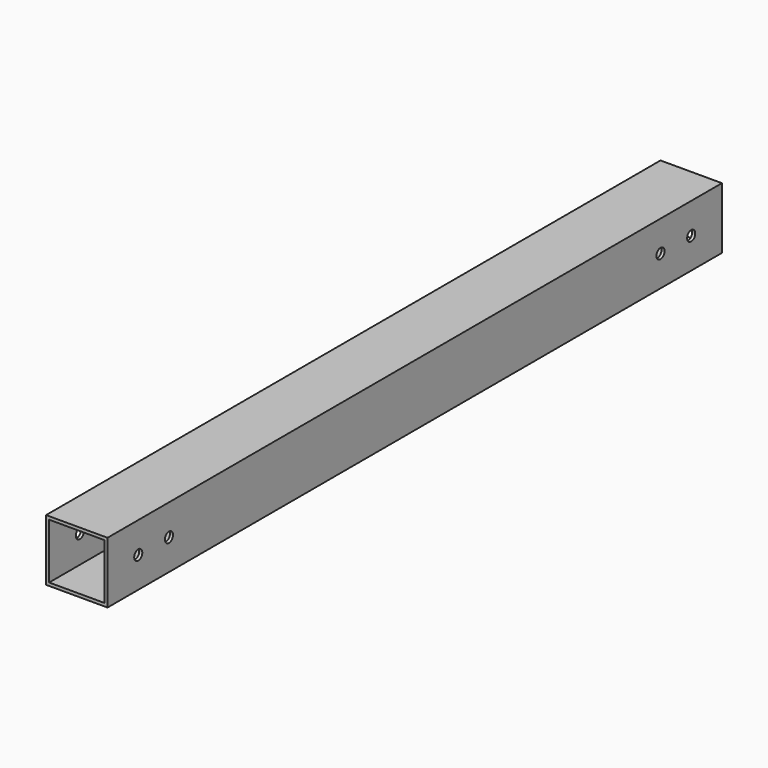
from build123d import *

# Parameters (mm, degrees)
SKETCH_W    = 40
SKETCH_H    = 40
SKETCH_W_2  = 36
SKETCH_H_2  = 36
PAD_DEPTH   = 500
SKETCH001_R = 3.3
HOLE_DEPTH  = 40.001


with BuildPart() as part:
    # Sketch → Pad (new body)
    with BuildSketch(Plane.XZ):
        Rectangle(SKETCH_W, SKETCH_H)
        Rectangle(SKETCH_W_2, SKETCH_H_2, mode=Mode.SUBTRACT)
    extrude(amount=PAD_DEPTH)

    # Sketch001 → Hole (cut, through all)
    with BuildSketch(Plane(origin=(20, 0, 0), x_dir=(0, 0, 1), z_dir=(1, 0, 0))):
        with Locations((0, 25)):
            Circle(SKETCH001_R)
        with Locations((0, 50)):
            Circle(SKETCH001_R)
        with Locations((0, 475)):
            Circle(SKETCH001_R)
        with Locations((0, 450)):
            Circle(SKETCH001_R)
    extrude(amount=-HOLE_DEPTH, mode=Mode.SUBTRACT)


solid = part.part
